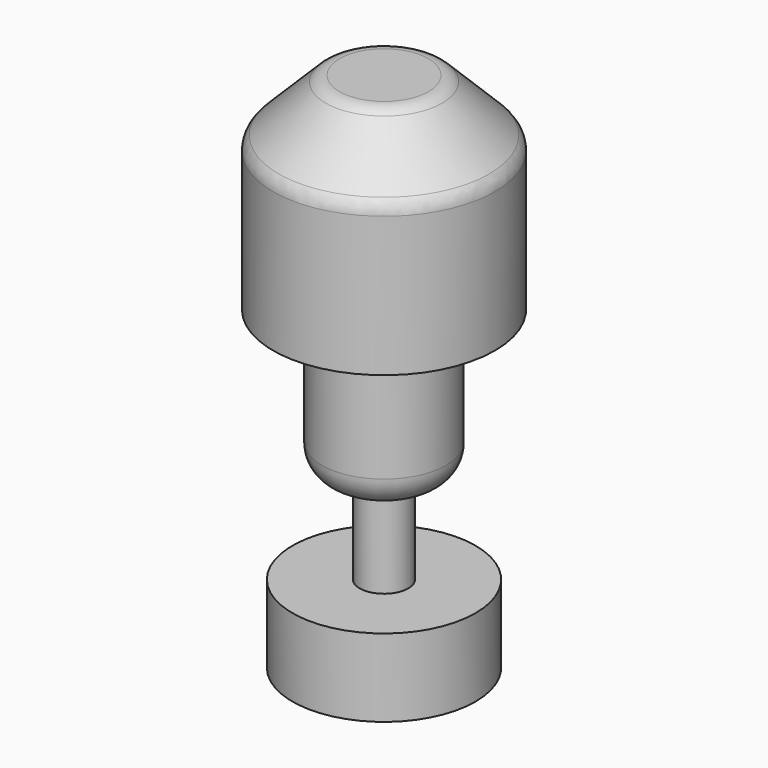
from build123d import *

# Parameters (mm, degrees)
F0_R      = 28.5
F1_DEPTH  = 26.5
F2_R      = 16
F3_DEPTH  = 38
F4_R      = 8
F5_SIZE   = 15
F6_R      = 5
F7_R      = 6.25
F8_DEPTH  = 23
F9_R      = 23.5
F10_DEPTH = 20


with BuildPart() as f1:
    # F0 (on Top) → F1 (new body, symmetric)
    with BuildSketch(Plane.XY):
        Circle(F0_R)
    extrude(amount=F1_DEPTH, both=True)

    # F2 (on face) → F3 (join)
    with BuildSketch(Plane(origin=(0, 0, -26.5), x_dir=(1, 0, 0), z_dir=(0, 0, -1))):
        Circle(F2_R)
    extrude(amount=F3_DEPTH)

    # F4
    f4_edges = [f1.edges().sort_by_distance(p)[0] for p in [
        (-16, 0, -64.5),
    ]]
    fillet(f4_edges, radius=F4_R)

    # F5
    f5_edges = [f1.edges().sort_by_distance(p)[0] for p in [
        (-28.5, 0, 26.5),
    ]]
    chamfer(f5_edges, length=F5_SIZE)

    # F6
    f6_edges = [f1.edges().sort_by_distance(p)[0] for p in [
        (-28.5, 0, 11.5),
        (-13.5, 0, 26.5),
    ]]
    fillet(f6_edges, radius=F6_R)

    # F7 (on face) → F8 (join)
    with BuildSketch(Plane(origin=(0, 0, -64.5), x_dir=(1, 0, 0), z_dir=(0, 0, -1))):
        Circle(F7_R)
    extrude(amount=F8_DEPTH)

    # F9 (on face) → F10 (join)
    with BuildSketch(Plane(origin=(0, 0, -87.5), x_dir=(1, 0, 0), z_dir=(0, 0, -1))):
        Circle(F9_R)
    extrude(amount=F10_DEPTH)


solid = f1.part
